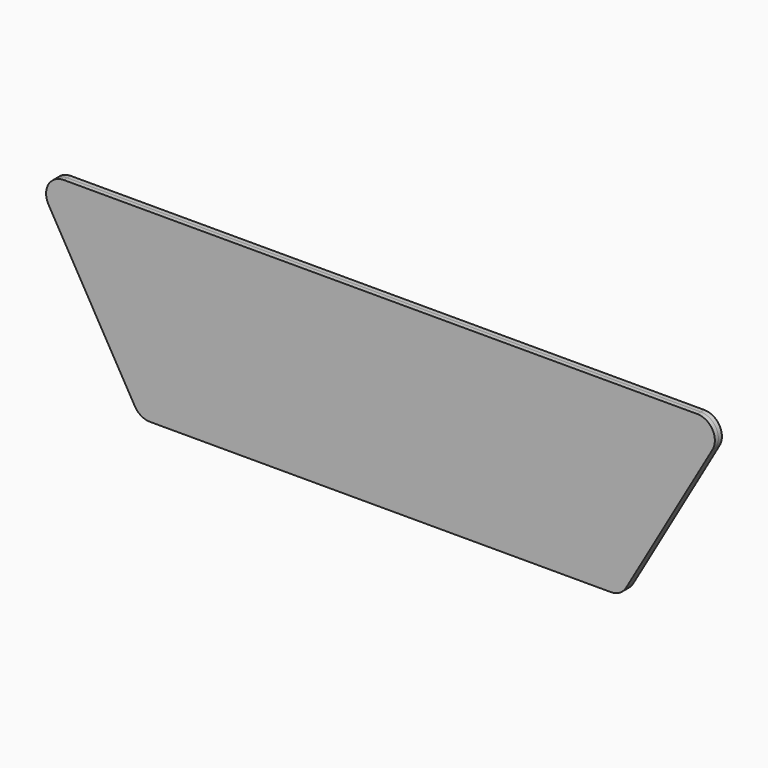
from build123d import *

# Parameters (mm, degrees)
F0_R     = 9.4
F1_DEPTH = 3
F3_DEPTH = 3


with BuildPart() as f1:
    # F0 (on Front) → F1 (new body)
    with BuildSketch(Plane.XZ):
        with BuildLine():
            Line((382.792305, -107.844587), (441.592305, -6))
            ThreePointArc((441.592305, -6), (441.592305, 6), (431.2, 12))
            Line((431.2, 12), (0, 12))
            ThreePointArc((0, 12), (-10.392305, 6), (-10.392305, -6))
            Line((-10.392305, -6), (48.407695, -107.844587))
            ThreePointArc((48.407695, -107.844587), (52.8, -112.236892), (58.8, -113.844587))
            Line((58.8, -113.844587), (372.4, -113.844587))
            ThreePointArc((372.4, -113.844587), (378.4, -112.236892), (382.792305, -107.844587))
        make_face()
        with Locations((58.8, -101.844587)):
            Circle(F0_R, mode=Mode.SUBTRACT)
        with Locations((78.4, -101.844587)):
            Circle(F0_R, mode=Mode.SUBTRACT)
        with Locations((98, -101.844587)):
            Circle(F0_R, mode=Mode.SUBTRACT)
        with Locations((49, -84.87049)):
            Circle(F0_R, mode=Mode.SUBTRACT)
        with Locations((68.6, -84.87049)):
            Circle(F0_R, mode=Mode.SUBTRACT)
        with Locations((88.2, -84.87049)):
            Circle(F0_R, mode=Mode.SUBTRACT)
        with Locations((117.6, -101.844587)):
            Circle(F0_R, mode=Mode.SUBTRACT)
        with Locations((137.2, -101.844587)):
            Circle(F0_R, mode=Mode.SUBTRACT)
        with Locations((156.8, -101.844587)):
            Circle(F0_R, mode=Mode.SUBTRACT)
        with Locations((176.4, -101.844587)):
            Circle(F0_R, mode=Mode.SUBTRACT)
        with Locations((196, -101.844587)):
            Circle(F0_R, mode=Mode.SUBTRACT)
        with Locations((215.6, -101.844587)):
            Circle(F0_R, mode=Mode.SUBTRACT)
        with Locations((107.8, -84.87049)):
            Circle(F0_R, mode=Mode.SUBTRACT)
        with Locations((127.4, -84.87049)):
            Circle(F0_R, mode=Mode.SUBTRACT)
        with Locations((147, -84.87049)):
            Circle(F0_R, mode=Mode.SUBTRACT)
        with Locations((166.6, -84.87049)):
            Circle(F0_R, mode=Mode.SUBTRACT)
        with Locations((186.2, -84.87049)):
            Circle(F0_R, mode=Mode.SUBTRACT)
        with Locations((205.8, -84.87049)):
            Circle(F0_R, mode=Mode.SUBTRACT)
        with Locations((39.2, -67.896392)):
            Circle(F0_R, mode=Mode.SUBTRACT)
        with Locations((58.8, -67.896392)):
            Circle(F0_R, mode=Mode.SUBTRACT)
        with Locations((78.4, -67.896392)):
            Circle(F0_R, mode=Mode.SUBTRACT)
        with Locations((98, -67.896392)):
            Circle(F0_R, mode=Mode.SUBTRACT)
        with Locations((29.4, -50.922294)):
            Circle(F0_R, mode=Mode.SUBTRACT)
        with Locations((49, -50.922294)):
            Circle(F0_R, mode=Mode.SUBTRACT)
        with Locations((68.6, -50.922294)):
            Circle(F0_R, mode=Mode.SUBTRACT)
        with Locations((88.2, -50.922294)):
            Circle(F0_R, mode=Mode.SUBTRACT)
        with Locations((117.6, -67.896392)):
            Circle(F0_R, mode=Mode.SUBTRACT)
        with Locations((137.2, -67.896392)):
            Circle(F0_R, mode=Mode.SUBTRACT)
        with Locations((156.8, -67.896392)):
            Circle(F0_R, mode=Mode.SUBTRACT)
        with Locations((176.4, -67.896392)):
            Circle(F0_R, mode=Mode.SUBTRACT)
        with Locations((196, -67.896392)):
            Circle(F0_R, mode=Mode.SUBTRACT)
        with Locations((215.6, -67.896392)):
            Circle(F0_R, mode=Mode.SUBTRACT)
        with Locations((107.8, -50.922294)):
            Circle(F0_R, mode=Mode.SUBTRACT)
        with Locations((127.4, -50.922294)):
            Circle(F0_R, mode=Mode.SUBTRACT)
        with Locations((147, -50.922294)):
            Circle(F0_R, mode=Mode.SUBTRACT)
        with Locations((166.6, -50.922294)):
            Circle(F0_R, mode=Mode.SUBTRACT)
        with Locations((186.2, -50.922294)):
            Circle(F0_R, mode=Mode.SUBTRACT)
        with Locations((205.8, -50.922294)):
            Circle(F0_R, mode=Mode.SUBTRACT)
        with Locations((235.2, -101.844587)):
            Circle(F0_R, mode=Mode.SUBTRACT)
        with Locations((254.8, -101.844587)):
            Circle(F0_R, mode=Mode.SUBTRACT)
        with Locations((274.4, -101.844587)):
            Circle(F0_R, mode=Mode.SUBTRACT)
        with Locations((294, -101.844587)):
            Circle(F0_R, mode=Mode.SUBTRACT)
        with Locations((313.6, -101.844587)):
            Circle(F0_R, mode=Mode.SUBTRACT)
        with Locations((225.4, -84.87049)):
            Circle(F0_R, mode=Mode.SUBTRACT)
        with Locations((245, -84.87049)):
            Circle(F0_R, mode=Mode.SUBTRACT)
        with Locations((264.6, -84.87049)):
            Circle(F0_R, mode=Mode.SUBTRACT)
        with Locations((284.2, -84.87049)):
            Circle(F0_R, mode=Mode.SUBTRACT)
        with Locations((303.8, -84.87049)):
            Circle(F0_R, mode=Mode.SUBTRACT)
        with Locations((323.4, -84.87049)):
            Circle(F0_R, mode=Mode.SUBTRACT)
        with Locations((333.2, -101.844587)):
            Circle(F0_R, mode=Mode.SUBTRACT)
        with Locations((352.8, -101.844587)):
            Circle(F0_R, mode=Mode.SUBTRACT)
        with Locations((372.4, -101.844587)):
            Circle(F0_R, mode=Mode.SUBTRACT)
        with Locations((343, -84.87049)):
            Circle(F0_R, mode=Mode.SUBTRACT)
        with Locations((362.6, -84.87049)):
            Circle(F0_R, mode=Mode.SUBTRACT)
        with Locations((382.2, -84.87049)):
            Circle(F0_R, mode=Mode.SUBTRACT)
        with Locations((235.2, -67.896392)):
            Circle(F0_R, mode=Mode.SUBTRACT)
        with Locations((254.8, -67.896392)):
            Circle(F0_R, mode=Mode.SUBTRACT)
        with Locations((274.4, -67.896392)):
            Circle(F0_R, mode=Mode.SUBTRACT)
        with Locations((294, -67.896392)):
            Circle(F0_R, mode=Mode.SUBTRACT)
        with Locations((313.6, -67.896392)):
            Circle(F0_R, mode=Mode.SUBTRACT)
        with Locations((225.4, -50.922294)):
            Circle(F0_R, mode=Mode.SUBTRACT)
        with Locations((245, -50.922294)):
            Circle(F0_R, mode=Mode.SUBTRACT)
        with Locations((264.6, -50.922294)):
            Circle(F0_R, mode=Mode.SUBTRACT)
        with Locations((284.2, -50.922294)):
            Circle(F0_R, mode=Mode.SUBTRACT)
        with Locations((303.8, -50.922294)):
            Circle(F0_R, mode=Mode.SUBTRACT)
        with Locations((323.4, -50.922294)):
            Circle(F0_R, mode=Mode.SUBTRACT)
        with Locations((333.2, -67.896392)):
            Circle(F0_R, mode=Mode.SUBTRACT)
        with Locations((352.8, -67.896392)):
            Circle(F0_R, mode=Mode.SUBTRACT)
        with Locations((372.4, -67.896392)):
            Circle(F0_R, mode=Mode.SUBTRACT)
        with Locations((392, -67.896392)):
            Circle(F0_R, mode=Mode.SUBTRACT)
        with Locations((343, -50.922294)):
            Circle(F0_R, mode=Mode.SUBTRACT)
        with Locations((362.6, -50.922294)):
            Circle(F0_R, mode=Mode.SUBTRACT)
        with Locations((382.2, -50.922294)):
            Circle(F0_R, mode=Mode.SUBTRACT)
        with Locations((401.8, -50.922294)):
            Circle(F0_R, mode=Mode.SUBTRACT)
        with Locations((19.6, -33.948196)):
            Circle(F0_R, mode=Mode.SUBTRACT)
        with Locations((39.2, -33.948196)):
            Circle(F0_R, mode=Mode.SUBTRACT)
        with Locations((58.8, -33.948196)):
            Circle(F0_R, mode=Mode.SUBTRACT)
        with Locations((78.4, -33.948196)):
            Circle(F0_R, mode=Mode.SUBTRACT)
        with Locations((98, -33.948196)):
            Circle(F0_R, mode=Mode.SUBTRACT)
        with Locations((117.6, -33.948196)):
            Circle(F0_R, mode=Mode.SUBTRACT)
        with Locations((137.2, -33.948196)):
            Circle(F0_R, mode=Mode.SUBTRACT)
        with Locations((156.8, -33.948196)):
            Circle(F0_R, mode=Mode.SUBTRACT)
        with Locations((176.4, -33.948196)):
            Circle(F0_R, mode=Mode.SUBTRACT)
        with Locations((196, -33.948196)):
            Circle(F0_R, mode=Mode.SUBTRACT)
        with Locations((215.6, -33.948196)):
            Circle(F0_R, mode=Mode.SUBTRACT)
        with Locations((9.8, -16.974098)):
            Circle(F0_R, mode=Mode.SUBTRACT)
        with Locations((29.4, -16.974098)):
            Circle(F0_R, mode=Mode.SUBTRACT)
        with Locations((49, -16.974098)):
            Circle(F0_R, mode=Mode.SUBTRACT)
        with Locations((68.6, -16.974098)):
            Circle(F0_R, mode=Mode.SUBTRACT)
        with Locations((88.2, -16.974098)):
            Circle(F0_R, mode=Mode.SUBTRACT)
        Circle(F0_R, mode=Mode.SUBTRACT)
        with Locations((19.6, 0)):
            Circle(F0_R, mode=Mode.SUBTRACT)
        with Locations((39.2, 0)):
            Circle(F0_R, mode=Mode.SUBTRACT)
        with Locations((58.8, 0)):
            Circle(F0_R, mode=Mode.SUBTRACT)
        with Locations((78.4, 0)):
            Circle(F0_R, mode=Mode.SUBTRACT)
        with Locations((98, 0)):
            Circle(F0_R, mode=Mode.SUBTRACT)
        with Locations((107.8, -16.974098)):
            Circle(F0_R, mode=Mode.SUBTRACT)
        with Locations((127.4, -16.974098)):
            Circle(F0_R, mode=Mode.SUBTRACT)
        with Locations((147, -16.974098)):
            Circle(F0_R, mode=Mode.SUBTRACT)
        with Locations((166.6, -16.974098)):
            Circle(F0_R, mode=Mode.SUBTRACT)
        with Locations((186.2, -16.974098)):
            Circle(F0_R, mode=Mode.SUBTRACT)
        with Locations((205.8, -16.974098)):
            Circle(F0_R, mode=Mode.SUBTRACT)
        with Locations((117.6, 0)):
            Circle(F0_R, mode=Mode.SUBTRACT)
        with Locations((137.2, 0)):
            Circle(F0_R, mode=Mode.SUBTRACT)
        with Locations((156.8, 0)):
            Circle(F0_R, mode=Mode.SUBTRACT)
        with Locations((176.4, 0)):
            Circle(F0_R, mode=Mode.SUBTRACT)
        with Locations((196, 0)):
            Circle(F0_R, mode=Mode.SUBTRACT)
        with Locations((215.6, 0)):
            Circle(F0_R, mode=Mode.SUBTRACT)
        with Locations((235.2, -33.948196)):
            Circle(F0_R, mode=Mode.SUBTRACT)
        with Locations((254.8, -33.948196)):
            Circle(F0_R, mode=Mode.SUBTRACT)
        with Locations((274.4, -33.948196)):
            Circle(F0_R, mode=Mode.SUBTRACT)
        with Locations((294, -33.948196)):
            Circle(F0_R, mode=Mode.SUBTRACT)
        with Locations((313.6, -33.948196)):
            Circle(F0_R, mode=Mode.SUBTRACT)
        with Locations((333.2, -33.948196)):
            Circle(F0_R, mode=Mode.SUBTRACT)
        with Locations((352.8, -33.948196)):
            Circle(F0_R, mode=Mode.SUBTRACT)
        with Locations((372.4, -33.948196)):
            Circle(F0_R, mode=Mode.SUBTRACT)
        with Locations((392, -33.948196)):
            Circle(F0_R, mode=Mode.SUBTRACT)
        with Locations((411.6, -33.948196)):
            Circle(F0_R, mode=Mode.SUBTRACT)
        with Locations((225.4, -16.974098)):
            Circle(F0_R, mode=Mode.SUBTRACT)
        with Locations((245, -16.974098)):
            Circle(F0_R, mode=Mode.SUBTRACT)
        with Locations((264.6, -16.974098)):
            Circle(F0_R, mode=Mode.SUBTRACT)
        with Locations((284.2, -16.974098)):
            Circle(F0_R, mode=Mode.SUBTRACT)
        with Locations((303.8, -16.974098)):
            Circle(F0_R, mode=Mode.SUBTRACT)
        with Locations((323.4, -16.974098)):
            Circle(F0_R, mode=Mode.SUBTRACT)
        with Locations((235.2, 0)):
            Circle(F0_R, mode=Mode.SUBTRACT)
        with Locations((254.8, 0)):
            Circle(F0_R, mode=Mode.SUBTRACT)
        with Locations((274.4, 0)):
            Circle(F0_R, mode=Mode.SUBTRACT)
        with Locations((294, 0)):
            Circle(F0_R, mode=Mode.SUBTRACT)
        with Locations((313.6, 0)):
            Circle(F0_R, mode=Mode.SUBTRACT)
        with Locations((343, -16.974098)):
            Circle(F0_R, mode=Mode.SUBTRACT)
        with Locations((362.6, -16.974098)):
            Circle(F0_R, mode=Mode.SUBTRACT)
        with Locations((382.2, -16.974098)):
            Circle(F0_R, mode=Mode.SUBTRACT)
        with Locations((401.8, -16.974098)):
            Circle(F0_R, mode=Mode.SUBTRACT)
        with Locations((421.4, -16.974098)):
            Circle(F0_R, mode=Mode.SUBTRACT)
        with Locations((333.2, 0)):
            Circle(F0_R, mode=Mode.SUBTRACT)
        with Locations((352.8, 0)):
            Circle(F0_R, mode=Mode.SUBTRACT)
        with Locations((372.4, 0)):
            Circle(F0_R, mode=Mode.SUBTRACT)
        with Locations((392, 0)):
            Circle(F0_R, mode=Mode.SUBTRACT)
        with Locations((411.6, 0)):
            Circle(F0_R, mode=Mode.SUBTRACT)
        with Locations((431.2, 0)):
            Circle(F0_R, mode=Mode.SUBTRACT)
    extrude(amount=F1_DEPTH)


with BuildPart() as f3:
    # F2 (on face) → F3 (new body)
    with BuildSketch(Plane.XZ.offset(3)):
        with BuildLine():
            Line((431.2, 12), (0, 12))
            ThreePointArc((0, 12), (-10.392305, 6), (-10.392305, -6))
            Line((-10.392305, -6), (48.407695, -107.844587))
            ThreePointArc((48.407695, -107.844587), (52.8, -112.236892), (58.8, -113.844587))
            Line((58.8, -113.844587), (372.4, -113.844587))
            ThreePointArc((372.4, -113.844587), (378.4, -112.236892), (382.792305, -107.844587))
            Line((382.792305, -107.844587), (441.592305, -6))
            ThreePointArc((441.592305, -6), (441.592305, 6), (431.2, 12))
        make_face()
    extrude(amount=F3_DEPTH)


solid = Compound([f1.part, f3.part])
